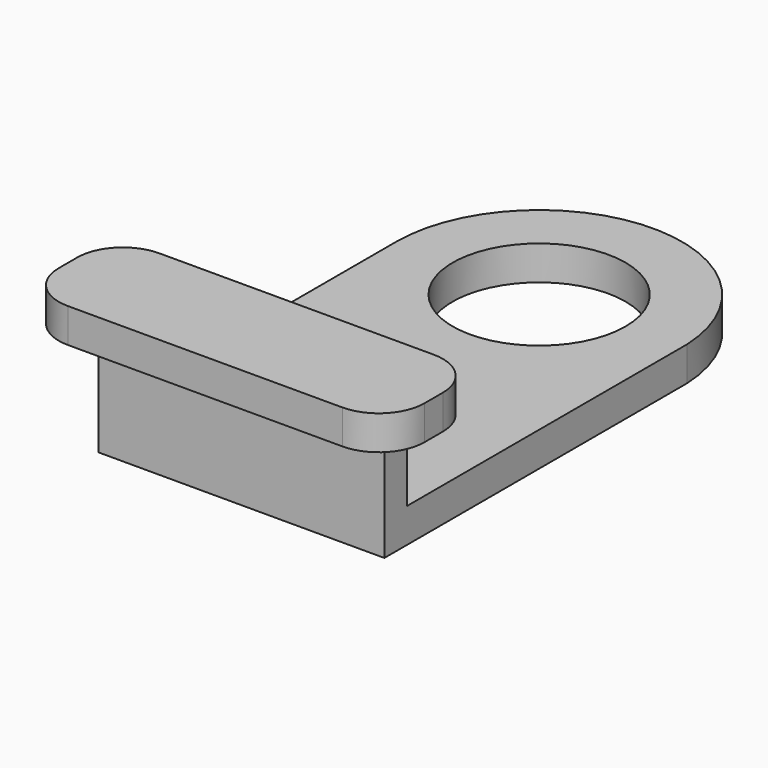
from build123d import *

# Parameters (mm, degrees)
F0_R     = 7.5625599735
F0_W     = 25
F0_H     = 3.598708484
F0_H_2   = 2.5
F1_DEPTH = 3
F2_DEPTH = 10
F3_START = 10
F3_DEPTH = 3
F4_R     = 4


with BuildPart() as f1:
    # F0 (on Top) → F1 (new body)
    with BuildSketch(Plane.XY):
        with BuildLine():
            Line((-11.908370629, 31.2152840197), (-11.908370629, 4.7718174662))
            Line((-11.908370629, 4.7718174662), (13.091629371, 4.7718174662))
            Line((13.091629371, 4.7718174662), (13.091629371, 31.7831486464))
            ThreePointArc((13.091629371, 31.7831486464), (0.3140732241, 43.7185083062), (-11.908370629, 31.2152840197))
        make_face()
        with Locations((0.5980787757, 31.2152840197)):
            Circle(F0_R, mode=Mode.SUBTRACT)
        with Locations((0.591629371, 2.9724632242)):
            Rectangle(F0_W, F0_H)
        with Locations((0.591629371, -0.0768910178)):
            Rectangle(F0_W, F0_H_2)
    extrude(amount=F1_DEPTH)

    # F0 (on Top) → F2 (join)
    with BuildSketch(Plane.XY):
        with Locations((0.591629371, -0.0768910178)):
            Rectangle(F0_W, F0_H_2)
    extrude(amount=F2_DEPTH)

    # F0 (on Top) → F3 (join)
    with BuildSketch(Plane.XY.offset(F3_START)):
        with Locations((0.591629371, 2.9724632242)):
            Rectangle(F0_W, F0_H)
        Polygon((-11.908370629, -1.3268910178), (-11.908370629, 1.1731089822), (-11.908370629, 4.7718174662), (-15.4697376937, 4.7718174662), (-15.4697376937, -5.2281825338), (16.5302623063, -5.2281825338), (16.5302623063, 4.7718174662), (13.091629371, 4.7718174662), (13.091629371, 1.1731089822), (13.091629371, -1.3268910178), align=None)
        with Locations((0.591629371, -0.0768910178)):
            Rectangle(F0_W, F0_H_2)
    extrude(amount=F3_DEPTH)

    # F4
    f4_edges = [f1.edges().sort_by_distance(p)[0] for p in [
        (16.530262, -5.228183, 11.5),
        (16.530262, 4.771817, 11.5),
        (-15.469738, -5.228183, 11.5),
        (-15.469738, 4.771817, 11.5),
    ]]
    fillet(f4_edges, radius=F4_R)


solid = f1.part
